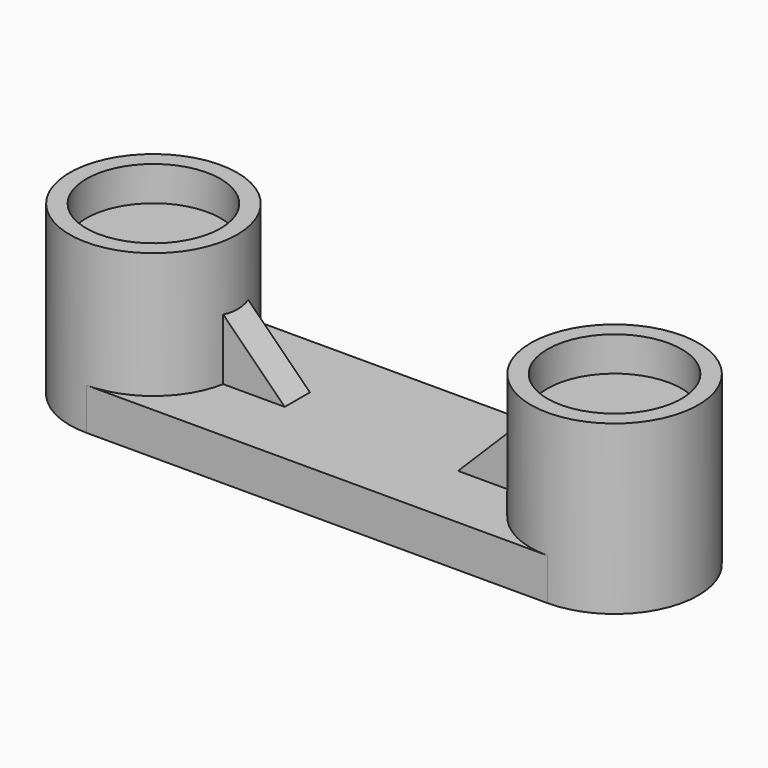
from build123d import *

# Parameters (mm, degrees)
F1_R     = 8
F1_R_2   = 6.4
F2_DEPTH = 16
F3_DEPTH = 4
F4_DEPTH = 8.7
F6_DEPTH = 1.5


with BuildPart() as f2:
    # F1 (on Top) → F2 (new body)
    with BuildSketch(Plane.XY):
        with Locations((-22, 0)):
            Circle(F1_R)
        with Locations((-22, 0)):
            Circle(F1_R_2, mode=Mode.SUBTRACT)
    extrude(amount=F2_DEPTH)

    # F0 (on Top) → F3 (join)
    with BuildSketch(Plane.XY):
        with BuildLine():
            Line((0, 8), (-22, 8))
            ThreePointArc((-22, 8), (-30, 0), (-22, -8))
            Line((-22, -8), (0, -8))
            Line((0, -8), (0, 8))
        make_face()
    extrude(amount=F3_DEPTH)

    # F4 (add): a face of the model
    f4_faces = [f2.faces().sort_by_distance(p)[0] for p in [
        (-22, 0, 4),
    ]]
    extrude(f4_faces, amount=F4_DEPTH)

    # F5 (on Front) → F6 (join, symmetric)
    with BuildSketch(Plane.XZ):
        Polygon((-8.2692483334, 4), (-14.318941161, 10.031673433), (-14.3099449018, 4), align=None)
    extrude(amount=F6_DEPTH, both=True)

    # F7: F2 across plane


with BuildPart() as f2_1:
    add(f2.part)
    add(f2.part.mirror(Plane.YZ))


solid = f2_1.part
